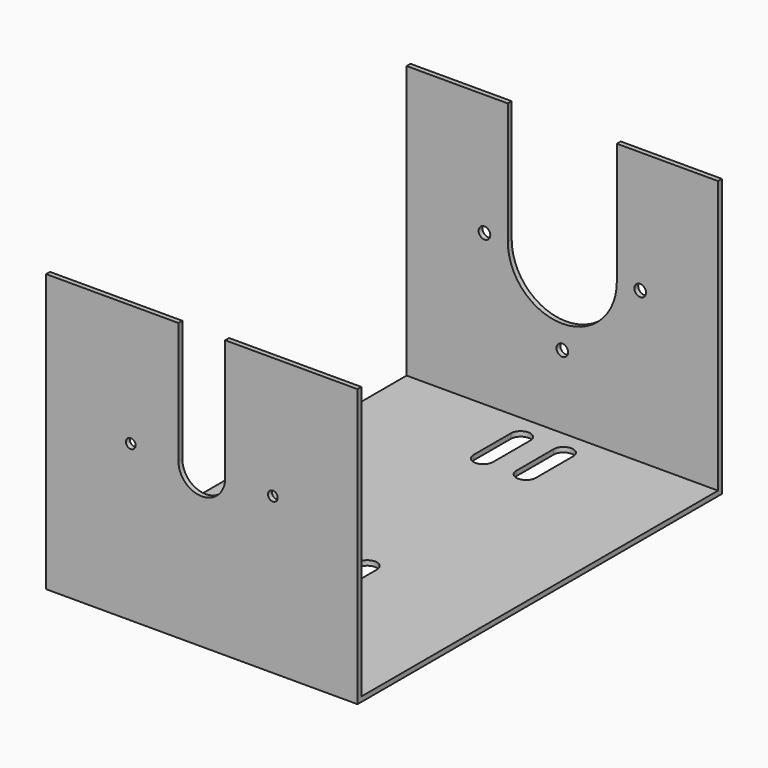
from build123d import *

# Parameters (mm, degrees)
F0_W      = 101.6
F0_H      = 148.59
F1_DEPTH  = 1.5875
F2_W      = 101.6
F2_H      = 1.5875
F3_DEPTH  = 88.9
F5_R      = 1.905
F6_DEPTH  = 1.5875
F7_R      = 1.5875
F8_DEPTH  = 1.5875
F9_W      = 6.35
F9_H      = 15.24
F10_DEPTH = 1.5875


with BuildPart() as f1:
    # F0 (on Top) → F1 (new body)
    with BuildSketch(Plane.XY):
        with Locations((50.8, 74.295)):
            Rectangle(F0_W, F0_H)
    extrude(amount=F1_DEPTH)

    # F2 (on face) → F3 (join)
    with BuildSketch(Plane.XY.offset(1.5875)):
        with Locations((50.8, 147.79625)):
            Rectangle(F2_W, F2_H)
        with Locations((50.8, 0.79375)):
            Rectangle(F2_W, F2_H)
    extrude(amount=F3_DEPTH)

    # F5 (on face) → F6 (cut, through all)
    with BuildSketch(Plane(origin=(0, 148.59, 0), x_dir=(-1, 0, 0), z_dir=(0, 1, 0))):
        with BuildLine():
            ThreePointArc((-68.58, 50.8), (-50.8, 33.02), (-33.02, 50.8))
            ThreePointArc((-33.02, 50.8), (-50.8, 68.58), (-68.58, 50.8))
        make_face()
        with BuildLine():
            ThreePointArc((-68.58, 50.8), (-50.8, 68.58), (-33.02, 50.8))
            Line((-33.02, 50.8), (-33.02, 90.4875))
            Line((-33.02, 90.4875), (-68.58, 90.4875))
            Line((-68.58, 90.4875), (-68.58, 50.8))
        make_face()
        with Locations((-50.8, 25.4)):
            Circle(F5_R)
        with Locations((-25.4, 50.8)):
            Circle(F5_R)
        with Locations((-76.2, 50.8)):
            Circle(F5_R)
    extrude(amount=-F6_DEPTH, mode=Mode.SUBTRACT)

    # F7 (on face) → F8 (cut, through all)
    with BuildSketch(Plane.XZ):
        with BuildLine():
            ThreePointArc((43.18, 50.8), (50.8, 43.18), (58.42, 50.8))
            ThreePointArc((58.42, 50.8), (50.8, 58.42), (43.18, 50.8))
        make_face()
        with BuildLine():
            ThreePointArc((43.18, 50.8), (50.8, 58.42), (58.42, 50.8))
            Line((58.42, 50.8), (58.42, 90.4875))
            Line((58.42, 90.4875), (43.18, 90.4875))
            Line((43.18, 90.4875), (43.18, 50.8))
        make_face()
        with Locations((73.9775, 50.8)):
            Circle(F7_R)
        with Locations((27.6225, 50.8)):
            Circle(F7_R)
    extrude(amount=-F8_DEPTH, mode=Mode.SUBTRACT)

    # F9 (on face) → F10 (cut, through all)
    with BuildSketch(Plane.XY.offset(1.5875)):
        with BuildLine():
            ThreePointArc((46.99, 138.7475), (43.815, 141.9225), (40.64, 138.7475))
            Line((40.64, 138.7475), (46.99, 138.7475))
        make_face()
        with Locations((43.815, 131.1275)):
            Rectangle(F9_W, F9_H)
        with BuildLine():
            Line((46.99, 123.5075), (40.64, 123.5075))
            ThreePointArc((40.64, 123.5075), (43.815, 120.3325), (46.99, 123.5075))
        make_face()
        with Locations((57.785, 131.1275)):
            Rectangle(F9_W, F9_H)
        with BuildLine():
            Line((54.61, 138.7475), (60.96, 138.7475))
            ThreePointArc((60.96, 138.7475), (57.785, 141.9225), (54.61, 138.7475))
        make_face()
        with BuildLine():
            ThreePointArc((54.61, 123.5075), (57.785, 120.3325), (60.96, 123.5075))
            Line((60.96, 123.5075), (54.61, 123.5075))
        make_face()
        with BuildLine():
            ThreePointArc((54.61, 43.4975), (57.785, 40.3225), (60.96, 43.4975))
            Line((60.96, 43.4975), (54.61, 43.4975))
        make_face()
        with Locations((57.785, 51.1175)):
            Rectangle(F9_W, F9_H)
        with BuildLine():
            Line((54.61, 58.7375), (60.96, 58.7375))
            ThreePointArc((60.96, 58.7375), (57.785, 61.9125), (54.61, 58.7375))
        make_face()
        with BuildLine():
            Line((46.99, 43.4975), (40.64, 43.4975))
            ThreePointArc((40.64, 43.4975), (43.815, 40.3225), (46.99, 43.4975))
        make_face()
        with Locations((43.815, 51.1175)):
            Rectangle(F9_W, F9_H)
        with BuildLine():
            ThreePointArc((46.99, 58.7375), (43.815, 61.9125), (40.64, 58.7375))
            Line((40.64, 58.7375), (46.99, 58.7375))
        make_face()
    extrude(amount=-F10_DEPTH, mode=Mode.SUBTRACT)


solid = f1.part
